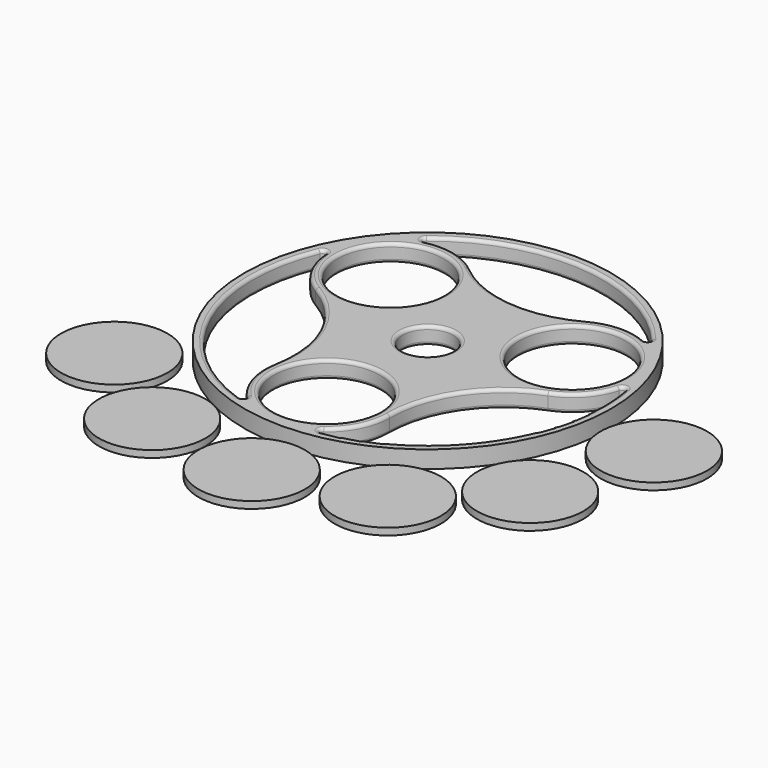
from build123d import *

# Parameters (mm, degrees)
F0_R     = 42.4033072662
F0_R_2   = 5.85
F0_R_3   = 12.3
F1_DEPTH = 4
F2_R     = 0.762
F3_R     = 12.3
F4_DEPTH = 1.6


with BuildPart() as f1:
    # F0 (on Top) → F1 (new body)
    with BuildSketch(Plane.XY):
        with Locations((-8.3110406995, 26.0802190751)):
            Circle(F0_R)
        with BuildLine():
            ThreePointArc((32.0922665668, 26.0802190751), (21.3631980985, -1.3399703811), (-5.1258148571, -14.1973376331))
            ThreePointArc((-5.1258148571, -14.1973376331), (-11.2593104887, -15.085916383), (-17.2035782861, -13.3323425433))
            ThreePointArc((-17.2035782861, -13.3323425433), (-45.1324396721, 9.4485680521), (-43.7609612929, 45.4639846528))
            ThreePointArc((-43.7609612929, 45.4639846528), (-41.2735701298, 50.7527831403), (-36.9002178526, 54.6299333951))
            ThreePointArc((-36.9002178526, 54.6299333951), (-4.4583881721, 66.2994222814), (25.1781387293, 48.6833626449))
            ThreePointArc((25.1781387293, 48.6833626449), (29.074284162, 43.6785138124), (30.4614724748, 37.4894775663))
            ThreePointArc((30.4614724748, 37.4894775663), (30.4614542842, 37.4665096366), (30.4613997126, 37.4435417644))
            ThreePointArc((30.4613997126, 37.4435417644), (31.6824716587, 31.8200977593), (32.0922665668, 26.0802190751))
        make_face(mode=Mode.SUBTRACT)
        with BuildLine():
            ThreePointArc((-24.4763787641, 2.0425941068), (-8.8875960681, 13.8153693896), (4.2765082786, -0.6177432531))
            ThreePointArc((4.2765082786, -0.6177432531), (8.9009375112, 14.2890390154), (21.1572744451, 23.9523566802))
            ThreePointArc((21.1572744451, 23.9523566802), (2.7910833564, 31.4239313857), (9.0518852052, 50.237324591))
            ThreePointArc((9.0518852052, 50.237324591), (-6.1086816413, 47.1895914015), (-20.3624696012, 53.1863399784))
            ThreePointArc((-20.3624696012, 53.1863399784), (-16.5286438674, 48.202305166), (-15.1652361858, 42.0639061677))
            ThreePointArc((-15.1652361858, 42.0639061677), (-22.4627575382, 29.4792209777), (-37.009967404, 29.5617094275))
            ThreePointArc((-37.009967404, 29.5617094275), (-26.3942494554, 17.7828702296), (-24.4763787641, 2.0425941068))
        make_face()
        with Locations((-8.3110406995, 26.0802190751)):
            Circle(F0_R_2, mode=Mode.SUBTRACT)
        with BuildLine():
            ThreePointArc((-43.7609612929, 45.4639846528), (-43.0122913364, 36.3976800158), (-37.009967404, 29.5617094275))
            ThreePointArc((-37.009967404, 29.5617094275), (-22.4627575382, 29.4792209777), (-15.1652361858, 42.0639061677))
            ThreePointArc((-15.1652361858, 42.0639061677), (-16.5286438674, 48.202305166), (-20.3624696012, 53.1863399784))
            ThreePointArc((-20.3624696012, 53.1863399784), (-28.4043142593, 56.5089771573), (-36.9002178526, 54.6299333951))
            ThreePointArc((-36.9002178526, 54.6299333951), (-40.6569085057, 50.291209842), (-43.7609612929, 45.4639846528))
        make_face()
        with Locations((-29.6652361858, 42.0639061677)):
            Circle(F0_R_3, mode=Mode.SUBTRACT)
        with BuildLine():
            ThreePointArc((-5.1258148571, -14.1973376331), (1.6963729104, -8.8792828226), (4.2765092174, -0.6229610302))
            ThreePointArc((4.2765092174, -0.6229610302), (4.2765089827, -0.6203521416), (4.2765082786, -0.6177432531))
            ThreePointArc((4.2765082786, -0.6177432531), (-8.8875960681, 13.8153693896), (-24.4763787641, 2.0425941068))
            ThreePointArc((-24.4763787641, 2.0425941068), (-23.3310069941, -6.8232044744), (-17.2035782861, -13.3323425433))
            ThreePointArc((-17.2035782861, -13.3323425433), (-11.1972849654, -14.2198656902), (-5.1258148571, -14.1973376331))
        make_face()
        with Locations((-10.2234907826, -0.6229610302)):
            Circle(F0_R_3, mode=Mode.SUBTRACT)
        with BuildLine():
            ThreePointArc((9.0518852052, 50.237324591), (2.7910833564, 31.4239313857), (21.1572744451, 23.9523566802))
            ThreePointArc((21.1572744451, 23.9523566802), (27.8981158892, 29.2574338349), (30.4613997126, 37.4435417644))
            ThreePointArc((30.4613997126, 37.4435417644), (28.2542272315, 43.2676685423), (25.1781387293, 48.6833626449))
            ThreePointArc((25.1781387293, 48.6833626449), (17.3522825959, 51.9226216177), (9.0518852052, 50.237324591))
        make_face()
        with Locations((15.9614724748, 37.4894775663)):
            Circle(F0_R_3, mode=Mode.SUBTRACT)
        with BuildLine():
            ThreePointArc((25.1781387293, 48.6833626449), (28.2542272315, 43.2676685423), (30.4613997126, 37.4435417644))
            ThreePointArc((30.4613997126, 37.4435417644), (30.4614542842, 37.4665096366), (30.4614724748, 37.4894775663))
            ThreePointArc((30.4614724748, 37.4894775663), (29.074284162, 43.6785138124), (25.1781387293, 48.6833626449))
        make_face()
        with BuildLine():
            ThreePointArc((-17.2035782861, -13.3323425433), (-11.2593104887, -15.085916383), (-5.1258148571, -14.1973376331))
            ThreePointArc((-5.1258148571, -14.1973376331), (-11.1972849654, -14.2198656902), (-17.2035782861, -13.3323425433))
        make_face()
        with BuildLine():
            ThreePointArc((-36.9002178526, 54.6299333951), (-41.2735701298, 50.7527831403), (-43.7609612929, 45.4639846528))
            ThreePointArc((-43.7609612929, 45.4639846528), (-40.6569085057, 50.291209842), (-36.9002178526, 54.6299333951))
        make_face()
    extrude(amount=F1_DEPTH)

    # F2
    f2_edges = [f1.edges().sort_by_distance(p)[0] for p in [
        (-2.461041, 26.080219, 2),
        (-14.161041, 26.080219, 0),
        (-14.161041, 26.080219, 4),
        (-17.203578, -13.332343, 2),
        (-43.760961, 45.463985, 2),
        (-45.13244, 9.448568, 0),
        (-45.13244, 9.448568, 4),
        (-6.108682, 47.189591, 0),
        (-6.108682, 47.189591, 4),
        (-4.458388, 66.299422, 4),
        (8.900938, 14.289039, 4),
        (24.957661, 3.1538, 0),
        (24.957661, 3.1538, 4),
        (27.898116, 29.257434, 4),
        (21.157274, 23.952357, 2),
        (-43.012291, 36.39768, 0),
        (9.051885, 50.237325, 2),
        (-23.331007, -6.823204, 0),
        (-24.476379, 2.042594, 2),
        (3.661472, 37.489478, 0),
        (17.352283, 51.922622, 4),
        (27.898116, 29.257434, 0),
        (1.697858, -8.877138, 4),
        (-22.523491, -0.622961, 0),
        (-22.523491, -0.622961, 4),
        (-36.900218, 54.629933, 2),
        (-28.404314, 56.508977, 0),
        (-41.965236, 42.063906, 0),
        (-41.965236, 42.063906, 4),
        (-43.012291, 36.39768, 4),
        (-4.458388, 66.299422, 0),
        (-37.009967, 29.561709, 2),
        (1.697858, -8.877138, 0),
        (-26.394249, 17.78287, 4),
        (17.352283, 51.922622, 0),
        (30.4614, 37.443542, 2),
        (-28.404314, 56.508977, 4),
        (-26.394249, 17.78287, 0),
        (3.661472, 37.489478, 4),
        (8.900938, 14.289039, 0),
        (-23.331007, -6.823204, 4),
        (25.178139, 48.683363, 2),
        (-5.125815, -14.197338, 2),
        (4.276508, -0.617743, 2),
        (-20.36247, 53.18634, 2),
    ]]
    fillet(f2_edges, radius=F2_R)


with BuildPart() as f4:
    # F3 (on Top) → F4 (new body)
    with BuildSketch(Plane.XY):
        with Locations((-4.569709301, -29.423693195)):
            Circle(F3_R)
    extrude(amount=F4_DEPTH)


with BuildPart() as f4b:
    # F3 (on Top) → F4, piece 2 (new body)
    with BuildSketch(Plane.XY):
        with Locations((21.0848003626, -22.2083646804)):
            Circle(F3_R)
    extrude(amount=F4_DEPTH)


with BuildPart() as f4c:
    # F3 (on Top) → F4, piece 3 (new body)
    with BuildSketch(Plane.XY):
        with Locations((40.0050021708, -4.7312295064)):
            Circle(F3_R)
    extrude(amount=F4_DEPTH)


with BuildPart() as f4d:
    # F3 (on Top) → F4, piece 4 (new body)
    with BuildSketch(Plane.XY):
        with Locations((-52.3512363434, -9.3811089173)):
            Circle(F3_R)
    extrude(amount=F4_DEPTH)


with BuildPart() as f4e:
    # F3 (on Top) → F4, piece 5 (new body)
    with BuildSketch(Plane.XY):
        with Locations((-31.0259200633, -25.0944960862)):
            Circle(F3_R)
    extrude(amount=F4_DEPTH)


with BuildPart() as f4f:
    # F3 (on Top) → F4, piece 6 (new body)
    with BuildSketch(Plane.XY):
        with Locations((47.5410111248, 21.5646419674)):
            Circle(F3_R)
    extrude(amount=F4_DEPTH)


solid = Compound([f1.part, f4.part, f4b.part, f4c.part, f4d.part, f4e.part, f4f.part])
